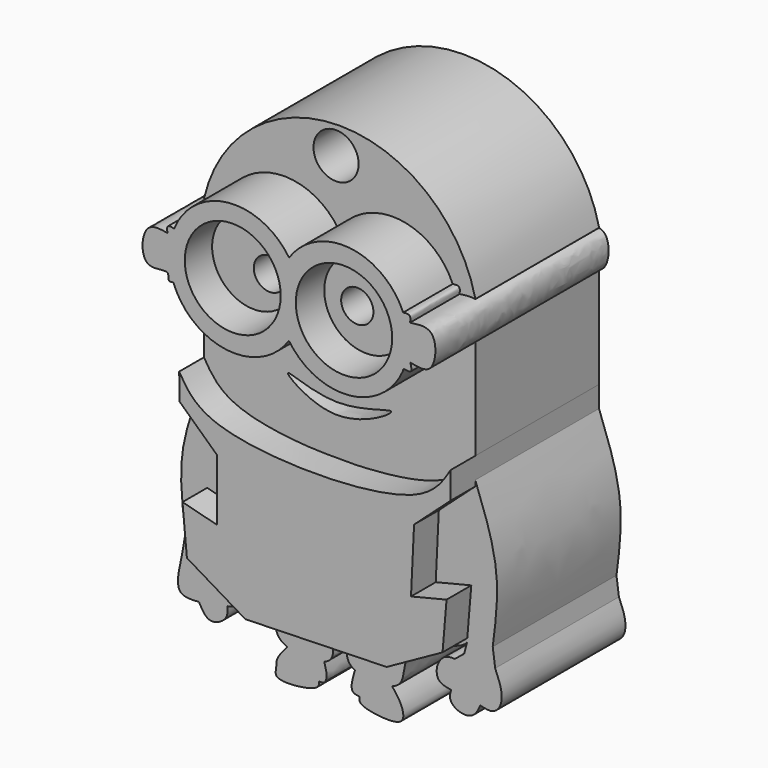
from build123d import *

# Parameters (mm, degrees)
F3_DEPTH = 25
F0_R     = 7.7880692788
F0_R_2   = 7.7530480529
F4_DEPTH = 35
F0_R_3   = 6.8003396863
F0_R_4   = 2.606727885
F0_R_5   = 6.738143996
F0_R_6   = 2.5826763211
F5_DEPTH = 30
F0_R_7   = 1.0919337267
F0_R_8   = 1.2451164314
F6_DEPTH = 35.0010001
F7_DEPTH = 30
F8_R     = 3.6476334568
F9_DEPTH = 25.0010001


with BuildPart() as f3:
    # F1 (on Front) → F3 (new body)
    with BuildSketch(Plane.XZ):
        with BuildLine():
            Line((22.4998220801, -1.9729584455), (22.4998220801, 23.8483585417))
            ThreePointArc((22.4998220801, 23.8483585417), (0.5855597556, 41.3153115207), (-21.328702569, 23.8483585417))
            Line((-21.328702569, 23.8483585417), (-21.328702569, -1.9729584455))
            add(Edge.make_bspline(
                [(-21.328702569, -1.9729584455), (-22.8463108933, -5.8502225465), (-25.8232183133, -13.4557793209), (-24.8358834298, -21.1028553231), (-24.3518855423, -24.851500988)],
                knots=[0, 0, 0, 0, 0.5097935912, 1, 1, 1, 1], degree=3))
            Line((-24.3518855423, -24.851500988), (-20.2943657065, -24.7890767749))
            add(Edge.make_bspline(
                [(-20.2943657065, -24.7890767749), (-19.2969206855, -26.1421179976), (-17.1862628676, -29.0054065811), (-9.0826664874, -29.4076566338), (-10.3756558591, -34.2382965811), (-8.302071978, -35.4526029497), (-7.8977376302, -35.6225439695)],
                knots=[0, 0, 0, 0, 0.0929781225, 0.1967567365, 0.2855326691, 0.3036832, 0.3036832, 0.3036832, 0.3036832], degree=3))
            add(Edge.make_bspline(
                [(-7.8977376302, -35.6225439695), (-6.1722980879, -36.3477431938), (-3.4935820877, -36.4140046046), (-1.9059416836, -35.7794666704)],
                knots=[0.3036832, 0.3036832, 0.3036832, 0.3036832, 0.3811380188, 0.3811380188, 0.3811380188, 0.3811380188], degree=3))
            add(Edge.make_bspline(
                [(-1.9059416836, -35.7794666704), (-1.4826094292, -35.6102719501), (0.1922625048, -34.5493273417), (-1.4553134716, -31.0368335795), (2.6301961168, -30.4217035183), (1.110725487, -33.9907512195), (2.6845557744, -35.1952870619), (3.0463403284, -35.3855954418)],
                knots=[0.3811380188, 0.3811380188, 0.3811380188, 0.3811380188, 0.4017907579, 0.4811808686, 0.5374051476, 0.6159367372, 0.6343056249, 0.6343056249, 0.6343056249, 0.6343056249], degree=3))
            add(Edge.make_bspline(
                [(3.0463403284, -35.3855954418), (4.6139275605, -36.210188375), (7.372597603, -36.3208174295), (9.0717918136, -35.70507214)],
                knots=[0.6343056249, 0.6343056249, 0.6343056249, 0.6343056249, 0.7138967338, 0.7138967338, 0.7138967338, 0.7138967338], degree=3))
            add(Edge.make_bspline(
                [(9.0717918136, -35.70507214), (9.4321815222, -35.5744759644), (11.4487033608, -34.5216820045), (9.5672333347, -29.2222184616), (19.9679353141, -26.8752366347), (21.0862582244, -25.6344750127), (21.1774836838, -25.4775344256)],
                knots=[0.7138967338, 0.7138967338, 0.7138967338, 0.7138967338, 0.7307775685, 0.8227463887, 0.9526275452, 0.9717181095, 0.9717181095, 0.9717181095, 0.9717181095], degree=3))
            add(Edge.make_bspline(
                [(21.1774836838, -25.4775344256), (21.236419243, -25.2480484754), (21.295351732, -25.0185625726), (21.3542773848, -24.7890767749)],
                knots=[1.8697697681, 1.8697697681, 1.8697697681, 1.8697697681, 2.5805671909, 2.5805671909, 2.5805671909, 2.5805671909], degree=3))
            Line((21.3542773848, -24.7890767749), (25.3222773848, -24.7890767749))
            add(Edge.make_bspline(
                [(22.4998220801, -1.9729584455), (23.9491124441, -5.8664561756), (26.7878029074, -13.4926432804), (25.8039010418, -21.0769065843), (25.3222773848, -24.7890767749)],
                knots=[0, 0, 0, 0, 0.5105430695, 1, 1, 1, 1], degree=3))
        make_face()
        with BuildLine():
            add(Edge.make_bspline(
                [(-7.8008067794, 3.3926777542), (-7.715209406, 3.7967007159), (-0.0346327446, -0.1099231748), (13.5151347063, 5.7887364653), (-0.0796135315, -2.9336946936), (-7.8893220247, 2.9748823227), (-7.8008067794, 3.3926777542)],
                knots=[0, 0, 0, 0, 0.2385503597, 0.4926303999, 0.7533178559, 1, 1, 1, 1], degree=3))
        make_face(mode=Mode.SUBTRACT)
        with BuildLine():
            add(Edge.make_bspline(
                [(25.3222773848, -24.7890767749), (25.4540204136, -25.7705280975), (25.5857016891, -26.7519808064), (25.7174447179, -27.733432129)],
                knots=[0, 0, 0, 0, 2.9707550678, 2.9707550678, 2.9707550678, 2.9707550678], degree=3))
            Line((25.3222773848, -24.7890767749), (21.3542773848, -24.7890767749))
            add(Edge.make_bspline(
                [(21.1774836838, -25.4775344256), (21.3126304721, -25.2450333624), (21.3334621224, -25.0170570851), (21.3542773848, -24.7890767749)],
                knots=[0.9717181095, 0.9717181095, 0.9717181095, 0.9717181095, 1, 1, 1, 1], degree=3))
            add(Edge.make_bspline(
                [(20.7123942673, -27.2885393351), (20.8673996187, -26.6848714082), (21.0224522736, -26.0812027534), (21.1774836838, -25.4775344256)],
                knots=[0, 0, 0, 0, 1.8697697681, 1.8697697681, 1.8697697681, 1.8697697681], degree=3))
            add(Edge.make_bspline(
                [(19.210876897, -28.5119954497), (19.7113826871, -28.1041767448), (20.2118884772, -27.69635804), (20.7123942673, -27.2885393351)],
                knots=[0, 0, 0, 0, 1.9368529313, 1.9368529313, 1.9368529313, 1.9368529313], degree=3))
            add(Edge.make_bspline(
                [(18.5991488397, -33.1277661026), (17.834564242, -33.0039791662), (16.31560746, -32.7580586925), (16.0925403622, -30.297107596), (17.5243826661, -28.4678738164), (18.6765122622, -28.4980155379), (19.210876897, -28.5119954497)],
                knots=[0, 0, 0, 0, 0.2588502496, 0.5142430849, 0.7747030218, 1, 1, 1, 1], degree=3))
            add(Edge.make_bspline(
                [(23.3261417598, -33.7951034307), (23.0018100622, -34.4937988999), (22.3557589899, -35.8855622103), (19.9362854812, -36.0860645381), (18.1553697784, -34.6869976463), (18.4585202041, -33.6218691906), (18.5991488397, -33.1277661026)],
                knots=[0, 0, 0, 0, 0.2660681038, 0.5299931676, 0.7819682443, 1, 1, 1, 1], degree=3))
            add(Edge.make_bspline(
                [(25.7174447179, -27.733432129), (26.0991451676, -28.616968153), (26.8277050492, -30.3033764749), (26.8290918171, -32.7775501769), (25.3908538812, -34.3016782646), (24.0306748359, -33.9679626271), (23.3261417598, -33.7951034307)],
                knots=[0, 0, 0, 0, 0.2830983681, 0.540349582, 0.76190264, 1, 1, 1, 1], degree=3))
        make_face()
        with BuildLine():
            Line((-20.2943657065, -24.7890767749), (-24.3518855423, -24.851500988))
            add(Edge.make_bspline(
                [(-24.3518855423, -24.851500988), (-24.4740581785, -25.7328370921), (-24.7546525456, -27.7570051387), (-26.4523740095, -34.1553550203), (-23.4668310477, -33.9432582363), (-22.1642088145, -33.8507182896)],
                knots=[0, 0, 0, 0, 0.3029949792, 0.6958897432, 1, 1, 1, 1], degree=3))
            add(Edge.make_bspline(
                [(-22.1642088145, -33.8507182896), (-21.6456534331, -34.7982406748), (-20.620119252, -36.6718942493), (-17.4330710116, -34.9810649396), (-17.5123053701, -33.5935365886), (-17.5484400243, -32.9609289765)],
                knots=[0, 0, 0, 0, 0.3575869038, 0.7071091364, 1, 1, 1, 1], degree=3))
            add(Edge.make_bspline(
                [(-17.5484400243, -32.9609289765), (-16.8414627662, -32.8104147571), (-15.4290259877, -32.5097094418), (-15.0309634252, -30.1585369745), (-16.2580148725, -28.6714684636), (-17.6167278218, -28.4953242029), (-18.9812127073, -27.7316403775), (-19.772907719, -27.2885393351)],
                knots=[0, 0, 0, 0, 0.2061885443, 0.4119344434, 0.603076096, 0.7696986767, 1, 1, 1, 1], degree=3))
            add(Edge.make_bspline(
                [(-19.772907719, -27.2885393351), (-19.9467570831, -26.4553856105), (-20.1205163424, -25.6222304995), (-20.2943657065, -24.7890767749)],
                knots=[0, 0, 0, 0, 2.5532785831, 2.5532785831, 2.5532785831, 2.5532785831], degree=3))
        make_face()
        with BuildLine():
            add(Edge.make_bspline(
                [(21.1774836838, -25.4775344256), (21.3126304721, -25.2450333624), (21.3334621224, -25.0170570851), (21.3542773848, -24.7890767749)],
                knots=[0.9717181095, 0.9717181095, 0.9717181095, 0.9717181095, 1, 1, 1, 1], degree=3))
            add(Edge.make_bspline(
                [(21.1774836838, -25.4775344256), (21.236419243, -25.2480484754), (21.295351732, -25.0185625726), (21.3542773848, -24.7890767749)],
                knots=[1.8697697681, 1.8697697681, 1.8697697681, 1.8697697681, 2.5805671909, 2.5805671909, 2.5805671909, 2.5805671909], degree=3))
        make_face()
        with BuildLine():
            add(Edge.make_bspline(
                [(-7.8977376302, -35.6225439695), (-6.1722980879, -36.3477431938), (-3.4935820877, -36.4140046046), (-1.9059416836, -35.7794666704)],
                knots=[0.3036832, 0.3036832, 0.3036832, 0.3036832, 0.3811380188, 0.3811380188, 0.3811380188, 0.3811380188], degree=3))
            add(Edge.make_bspline(
                [(-1.9059416836, -35.7794666704), (-1.680785416, -36.5582268026), (-1.2994840832, -37.8753416142), (-1.997759322, -39.0235838093), (-2.9846371278, -38.6840666806), (-2.3382655862, -40.0286328164), (-7.0786673701, -40.9764542285), (-10.0560314982, -40.6088467645), (-9.5741803423, -39.0933884241), (-9.7898507255, -37.8372340094), (-8.6126928584, -36.459208651), (-7.8977376302, -35.6225439695)],
                knots=[0, 0, 0, 0, 0.1275212146, 0.2154393675, 0.2830262765, 0.3520697238, 0.5320669857, 0.6715958155, 0.7611170491, 0.8548715539, 1, 1, 1, 1], degree=3))
        make_face()
        with BuildLine():
            add(Edge.make_bspline(
                [(9.0717918136, -35.70507214), (9.6009091054, -36.3623432845), (10.6085164655, -37.6159502684), (11.1727262268, -40.1111850594), (9.1043653948, -40.8659997299), (5.4536426452, -40.5219793724), (3.5789143837, -39.7716769335), (3.9716517155, -38.7749600549), (3.0825526973, -38.867748088), (2.2213306452, -38.2321026784), (2.7198181338, -36.5116386825), (3.0463403284, -35.3855954418)],
                knots=[0, 0, 0, 0, 0.1349753525, 0.2569169218, 0.3685863793, 0.5358127917, 0.6457075434, 0.712447332, 0.7800203192, 0.856061517, 1, 1, 1, 1], degree=3))
            add(Edge.make_bspline(
                [(3.0463403284, -35.3855954418), (4.6139275605, -36.210188375), (7.372597603, -36.3208174295), (9.0717918136, -35.70507214)],
                knots=[0.6343056249, 0.6343056249, 0.6343056249, 0.6343056249, 0.7138967338, 0.7138967338, 0.7138967338, 0.7138967338], degree=3))
        make_face()
    extrude(amount=F3_DEPTH)

    # F0 (on Front) → F4 (join)
    with BuildSketch(Plane.XZ):
        with BuildLine():
            ThreePointArc((18.8520463513, 24.7260476749), (10.1631575318, 31.1060868671), (0.4045535893, 26.526639509))
            ThreePointArc((0.4045535893, 26.526639509), (-9.4524536116, 31.1568428699), (-18.173156256, 24.633904919))
            ThreePointArc((-18.173156256, 24.633904919), (-18.9580295518, 20.7866965213), (-18.2857271936, 16.9182280795))
            ThreePointArc((-18.2857271936, 16.9182280795), (-9.6233036673, 10.1267013427), (0.3849493466, 14.7089811656))
            ThreePointArc((0.3849493466, 14.7089811656), (10.1457331452, 10.0988393554), (18.8520463513, 16.4805646888))
            add(Edge.make_bspline(
                [(18.9445056321, 16.7055959721), (18.8514046263, 16.6734537868), (18.8534828716, 16.5761873893), (18.8520463513, 16.4805646888)],
                knots=[0.8151727223, 0.8151727223, 0.8151727223, 0.8151727223, 1, 1, 1, 1], degree=3))
            ThreePointArc((18.9445056321, 16.7055959721), (19.6900107157, 20.7249488934), (18.8520463513, 24.7260476749))
        make_face()
        with Locations((9.2809787881, 20.5004019324)):
            Circle(F0_R, mode=Mode.SUBTRACT)
        with Locations((-8.7025083567, 20.6669181942)):
            Circle(F0_R_2, mode=Mode.SUBTRACT)
        with BuildLine():
            add(Edge.make_bspline(
                [(18.8520463513, 24.7260476749), (19.2726693073, 24.7731573113), (20.098905786, 24.8616668684), (20.0116930294, 24.0534463725), (19.9677012861, 23.6518681049)],
                knots=[0, 0, 0, 0, 0.5049429931, 1, 1, 1, 1], degree=3))
            ThreePointArc((18.8520463513, 24.7260476749), (19.6900107157, 20.7249488934), (18.9445056321, 16.7055959721))
            add(Edge.make_bspline(
                [(20.0116930294, 17.993465066), (20.1543029082, 17.4160286879), (20.4293844748, 16.3130698672), (19.1395099161, 16.7729192387), (18.9445056321, 16.7055959721)],
                knots=[0, 0, 0, 0, 0.4280435969, 0.8151727223, 0.8151727223, 0.8151727223, 0.8151727223], degree=3))
            add(Edge.make_bspline(
                [(19.9677012861, 23.6518681049), (21.3927535846, 23.8505533553), (24.4595710085, 24.2781386366), (24.0652445785, 17.1538823506), (21.276711916, 17.7314508843), (20.0116930294, 17.993465066)],
                knots=[0, 0, 0, 0, 0.3216804968, 0.6922801034, 1, 1, 1, 1], degree=3))
        make_face()
        with BuildLine():
            ThreePointArc((-18.2857271936, 16.9182280795), (-18.9580295518, 20.7866965213), (-18.173156256, 24.633904919))
            add(Edge.make_bspline(
                [(-18.173156256, 24.633904919), (-18.585462893, 24.7169097011), (-19.4061948841, 24.8821378927), (-19.3025919979, 24.0606631024), (-19.2510355264, 23.6518681049)],
                knots=[0, 0, 0, 0, 0.5023645251, 1, 1, 1, 1], degree=3))
            add(Edge.make_bspline(
                [(-19.2510355264, 23.6518681049), (-20.5375893714, 23.8581395144), (-23.3576295758, 24.3101826351), (-23.708989424, 16.7610761355), (-18.6933729226, 18.7539275472), (-19.3394896633, 16.7844586286), (-18.6271528141, 16.8731457601), (-18.2857271936, 16.9182280795)],
                knots=[0, 0, 0, 0, 0.238542276, 0.5233649858, 0.7560548921, 0.884413058, 1, 1, 1, 1], degree=3))
        make_face()
    extrude(amount=F4_DEPTH)

    # F0 (on Front) → F5 (join)
    with BuildSketch(Plane.XZ):
        with Locations((8.8877414863, 20.42362121)):
            Circle(F0_R_3)
        with Locations((7.4285613498, 19.9058804243)):
            Circle(F0_R_4, mode=Mode.SUBTRACT)
        with Locations((-9.292710527, 20.7301457631)):
            Circle(F0_R_5)
        with Locations((-6.7215608282, 19.8768900796)):
            Circle(F0_R_6, mode=Mode.SUBTRACT)
    extrude(amount=F5_DEPTH)

    # F0 (on Front) → F6 (cut, through all)
    with BuildSketch(Plane.XZ):
        with Locations((7.3274976287, 19.9922335324)):
            Circle(F0_R_7)
        with Locations((-6.4698126403, 20.0415900017)):
            Circle(F0_R_8)
    extrude(amount=F6_DEPTH, mode=Mode.SUBTRACT)

    # F8 (on face) → F9 (cut, through all)
    with BuildSketch(Plane.XZ.offset(25)):
        with Locations((0, 36.8464961648)):
            Circle(F8_R)
    extrude(amount=-F9_DEPTH, mode=Mode.SUBTRACT)


with BuildPart() as f7:
    # F2 (on Front) → F7 (new body)
    with BuildSketch(Plane.XZ):
        with BuildLine():
            add(Edge.make_bspline(
                [(-21.3568750769, 1.2135049328), (-20.1482013, -0.8032694747), (-16.5666210859, -6.7794389359), (17.4329374837, -6.8484890402), (21.2078573571, -0.6635973015), (22.5039534271, 1.4599481365)],
                knots=[0, 0, 0, 0, 0.2506428244, 0.7427127137, 1, 1, 1, 1], degree=3))
            add(Edge.make_bspline(
                [(-21.2776362896, -3.0501440633), (-21.3040492187, -1.6289277313), (-21.3304621478, -0.2077113992), (-21.3568750769, 1.2135049328)],
                knots=[0, 0, 0, 0, 4.2643852485, 4.2643852485, 4.2643852485, 4.2643852485], degree=3))
            add(Edge.make_bspline(
                [(-15.2694666758, -8.6482865736), (-17.2721898804, -6.7822390702), (-19.274913085, -4.9161915667), (-21.2776362896, -3.0501440633)],
                knots=[0, 0, 0, 0, 8.2120217775, 8.2120217775, 8.2120217775, 8.2120217775], degree=3))
            add(Edge.make_bspline(
                [(-15.2694666758, -18.6009258032), (-15.2694666758, -15.2833793933), (-15.2694666758, -11.9658329835), (-15.2694666758, -8.6482865736)],
                knots=[0, 0, 0, 0, 9.9526392296, 9.9526392296, 9.9526392296, 9.9526392296], degree=3))
            add(Edge.make_bspline(
                [(-20.8250246942, -17.1836838126), (-18.9731720214, -17.6560978095), (-17.1213193486, -18.1285118063), (-15.2694666758, -18.6009258032)],
                knots=[0, 0, 0, 0, 5.7334805969, 5.7334805969, 5.7334805969, 5.7334805969], degree=3))
            add(Edge.make_bspline(
                [(-20.1071538031, -24.899777025), (-20.3464441001, -22.3277459542), (-20.5857343972, -19.7557148834), (-20.8250246942, -17.1836838126)],
                knots=[0, 0, 0, 0, 7.7494150152, 7.7494150152, 7.7494150152, 7.7494150152], degree=3))
            add(Edge.make_bspline(
                [(-10.6588751078, -30.5424984545), (-13.8083013395, -28.6615913113), (-16.9577275713, -26.7806841681), (-20.1071538031, -24.899777025)],
                knots=[0, 0, 0, 0, 11.0050113783, 11.0050113783, 11.0050113783, 11.0050113783], degree=3))
            add(Edge.make_bspline(
                [(12.1744628996, -29.9126133323), (4.5633502305, -30.1225750397), (-3.0477624387, -30.3325367471), (-10.6588751078, -30.5424984545)],
                knots=[0, 0, 0, 0, 22.8420244248, 22.8420244248, 22.8420244248, 22.8420244248], degree=3))
            add(Edge.make_bspline(
                [(21.2078573571, -24.899777025), (18.1967258712, -26.5707224607), (15.1855943854, -28.2416678965), (12.1744628996, -29.9126133323)],
                knots=[0, 0, 0, 0, 10.3310572193, 10.3310572193, 10.3310572193, 10.3310572193], degree=3))
            add(Edge.make_bspline(
                [(21.8589492142, -17.1836838126), (21.6419185952, -19.7557148834), (21.4248879761, -22.3277459542), (21.2078573571, -24.899777025)],
                knots=[0, 0, 0, 0, 7.7435143874, 7.7435143874, 7.7435143874, 7.7435143874], degree=3))
            add(Edge.make_bspline(
                [(16.1112453789, -18.6009258032), (18.0271466573, -18.1285118063), (19.9430479358, -17.6560978095), (21.8589492142, -17.1836838126)],
                knots=[0, 0, 0, 0, 5.9198542414, 5.9198542414, 5.9198542414, 5.9198542414], degree=3))
            add(Edge.make_bspline(
                [(16.6081730276, -8.2012042403), (16.442530478, -11.6677780946), (16.2768879284, -15.1343519489), (16.1112453789, -18.6009258032)],
                knots=[0, 0, 0, 0, 10.4115870871, 10.4115870871, 10.4115870871, 10.4115870871], degree=3))
            add(Edge.make_bspline(
                [(22.5039534271, -2.8999566566), (20.5386932939, -4.6670391845), (18.5734331608, -6.4341217124), (16.6081730276, -8.2012042403)],
                knots=[0, 0, 0, 0, 7.9286475809, 7.9286475809, 7.9286475809, 7.9286475809], degree=3))
            add(Edge.make_bspline(
                [(22.5039534271, 1.4599481365), (22.5039534271, 0.0066465388), (22.5039534271, -1.4466550589), (22.5039534271, -2.8999566566)],
                knots=[0, 0, 0, 0, 4.3599047931, 4.3599047931, 4.3599047931, 4.3599047931], degree=3))
        make_face()
    extrude(amount=F7_DEPTH)


solid = Compound([f3.part, f7.part])
